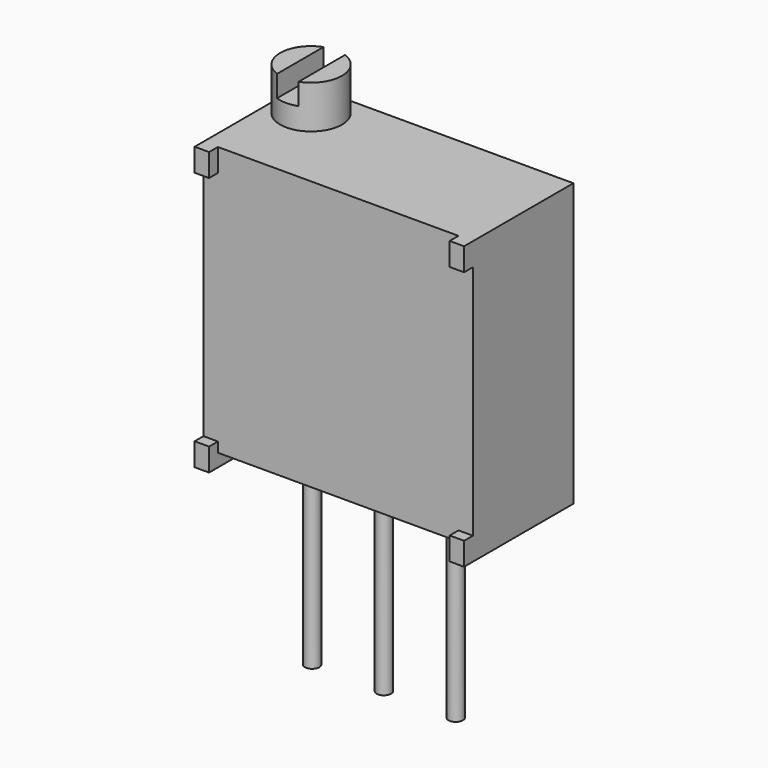
from build123d import *

# Parameters (mm, degrees)
SKETCH_W                = 9.53
SKETCH_H                = 9.52
PAD_DEPTH               = 4.44
SKETCH001_W             = 0.51
SKETCH001_H             = 0.81
PAD001_DEPTH            = 4.83
SKETCH004_R             = 0.255
PAD003_DEPTH            = 6.86
SKETCH002_R             = 1.095
PAD002_DEPTH            = 1.52
SKETCH003_W             = 3
SKETCH003_H             = 0.76
POCKET_DEPTH            = 0.76
BODY001_PLACEMENT_ANGLE = 90


with BuildPart() as body:
    # Sketch → Pad (new body)
    with BuildSketch(Plane.XZ):
        with Locations((4.765, 4.76)):
            Rectangle(SKETCH_W, SKETCH_H)
    extrude(amount=PAD_DEPTH)

    # Sketch001 → Pad001 (join)
    with BuildSketch(Plane.XZ):
        with Locations((0.255, 9.115)):
            Rectangle(SKETCH001_W, SKETCH001_H)
        with Locations((9.275, 9.115)):
            Rectangle(SKETCH001_W, SKETCH001_H)
        with Locations((9.275, -0.055)):
            Rectangle(SKETCH001_W, SKETCH001_H)
        with Locations((0.255, -0.055)):
            Rectangle(SKETCH001_W, SKETCH001_H)
    extrude(amount=PAD001_DEPTH)

    # Sketch004 (on Face19 of Pad001) → Pad003 (join)
    with BuildSketch(Plane(origin=(0, 0, 0), x_dir=(1, 0, 0), z_dir=(0, 0, -1))):
        with Locations((2.225, 2.42)):
            Circle(SKETCH004_R)
        with Locations((4.765, 2.42)):
            Circle(SKETCH004_R)
        with Locations((7.305, 2.42)):
            Circle(SKETCH004_R)
    extrude(amount=PAD003_DEPTH)


with BuildPart() as body001:
    # Sketch002 → Pad002 (new body)
    with BuildSketch(Plane.XY):
        Circle(SKETCH002_R)
    extrude(amount=PAD002_DEPTH)

    # Sketch003 (on Face3 of Pad002) → Pocket (cut)
    with BuildSketch(Plane.XY.offset(1.52)):
        Rectangle(SKETCH003_W, SKETCH003_H)
    extrude(amount=-POCKET_DEPTH, mode=Mode.SUBTRACT)


with BuildPart() as body001_1:
    # Body001 placement: moved
    add(body001.part.moved(Location((1.27, -1.27, 9.53))).rotate(Axis((1.27, -1.27, 9.53), (0, 0, 1)), BODY001_PLACEMENT_ANGLE))


solid = Compound([body.part, body001_1.part])
